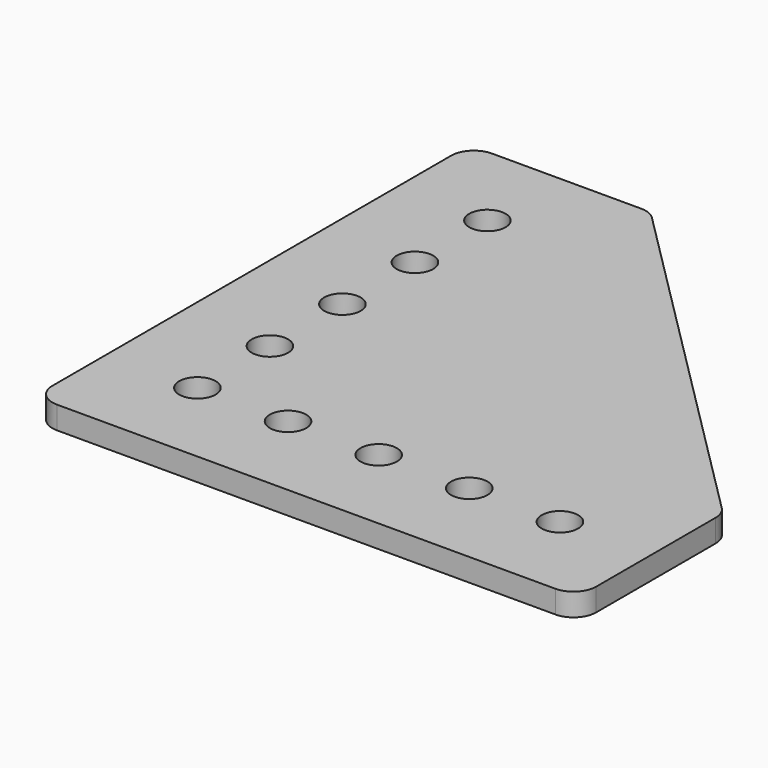
from build123d import *

# Parameters (mm, degrees)
F0_R     = 2.5527
F1_DEPTH = 3.175
F2_R     = 3.175


with BuildPart() as f1:
    # F0 (on Top) → F1 (new body)
    with BuildSketch(Plane.XY):
        Polygon((12.7, 63.5), (-12.7, 63.5), (-12.7, -12.7), (63.5, -12.7), (63.5, 12.7), align=None)
        Circle(F0_R, mode=Mode.SUBTRACT)
        with Locations((12.7, 0)):
            Circle(F0_R, mode=Mode.SUBTRACT)
        with Locations((25.4, 0)):
            Circle(F0_R, mode=Mode.SUBTRACT)
        with Locations((0, 12.7)):
            Circle(F0_R, mode=Mode.SUBTRACT)
        with Locations((0, 25.4)):
            Circle(F0_R, mode=Mode.SUBTRACT)
        with Locations((38.1, 0)):
            Circle(F0_R, mode=Mode.SUBTRACT)
        with Locations((50.8, 0)):
            Circle(F0_R, mode=Mode.SUBTRACT)
        with Locations((0, 38.1)):
            Circle(F0_R, mode=Mode.SUBTRACT)
        with Locations((0, 50.8)):
            Circle(F0_R, mode=Mode.SUBTRACT)
    extrude(amount=F1_DEPTH)

    # F2
    f2_edges = [f1.edges().sort_by_distance(p)[0] for p in [
        (-12.7, 63.5, 1.5875),
        (12.7, 63.5, 1.5875),
        (-12.7, -12.7, 1.5875),
        (63.5, -12.7, 1.5875),
        (63.5, 12.7, 1.5875),
    ]]
    fillet(f2_edges, radius=F2_R)


solid = f1.part
